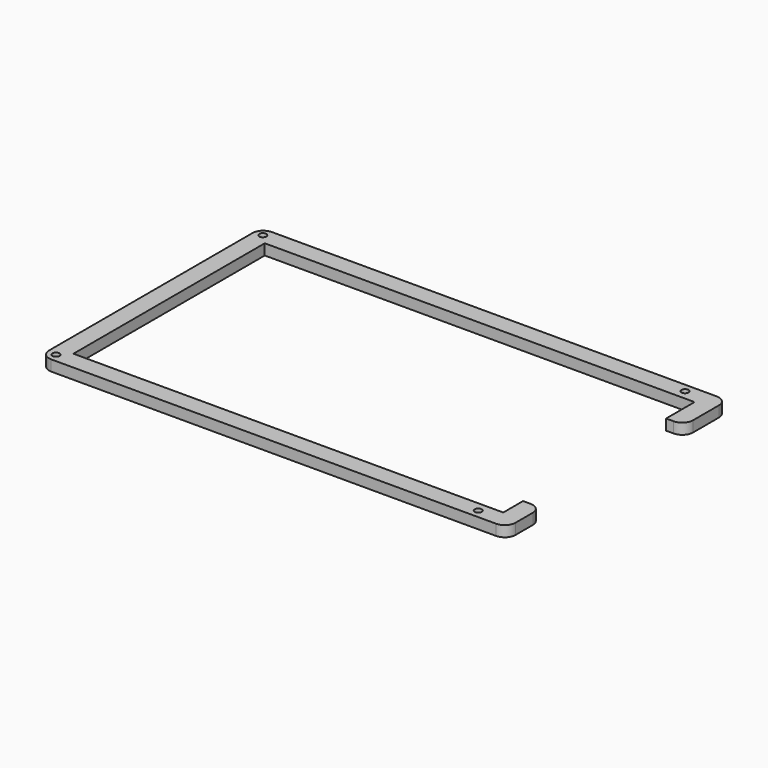
from build123d import *

# Parameters (mm, degrees)
F1_DEPTH = 5
F2_D     = 3.3
F3_R     = 5


with BuildPart() as f1:
    # F0 (on Top) → F1 (new body)
    with BuildSketch(Plane.XY):
        Polygon((115.4999993443, 64.5), (103, 64.5), (-101, 64.5), (-101, -63.5), (103, -63.5), (115.4999993443, -63.5), (115.4999993443, -43.5), (106.9999993443, -43.5), (106.9999993443, -55), (103, -55), (-92.5, -55), (-92.5, 56), (103, 56), (106.9999993443, 56), (106.9999993443, 39.5), (115.4999993443, 39.5), align=None)
    extrude(amount=F1_DEPTH)

    # F2 (through all)
    with Locations(Plane(origin=(0, 0, 0), x_dir=(1, 0, 0), z_dir=(0, 0, -1))):
        with Locations((-97, -60.5), (99, -60.5), (99, 59.5), (-97, 59.5)):
            Hole(F2_D / 2)

    # F3
    f3_edges = [f1.edges().sort_by_distance(p)[0] for p in [
        (-101, -63.5, 2.5),
        (115.499999, -63.5, 2.5),
        (115.499999, -43.5, 2.5),
        (115.499999, 39.5, 2.5),
        (115.499999, 64.5, 2.5),
        (-101, 64.5, 2.5),
    ]]
    fillet(f3_edges, radius=F3_R)


solid = f1.part
